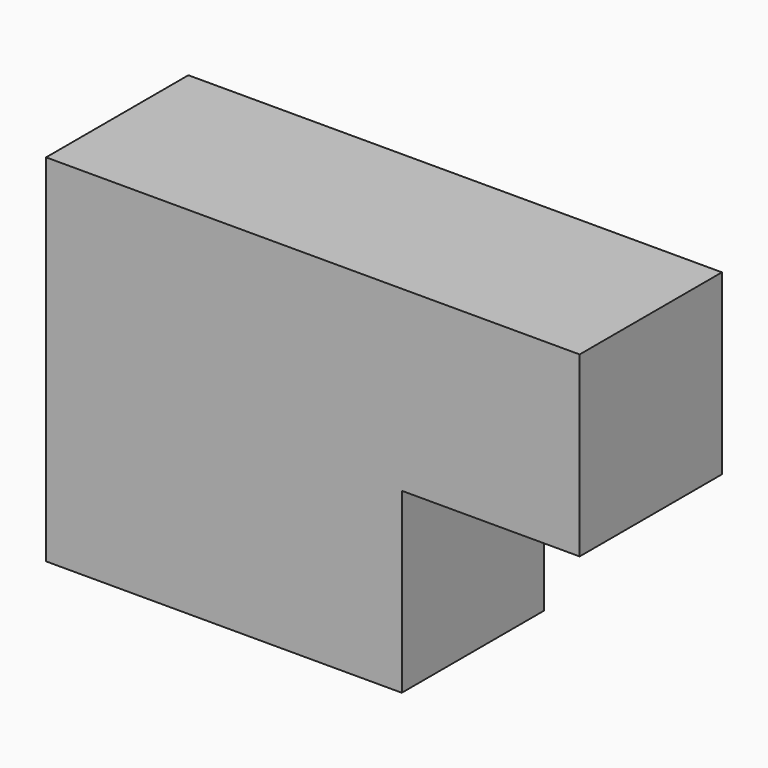
from build123d import *

# Parameters (mm, degrees)
F1_DEPTH = 12.7
F2_W     = 12.7
F2_H     = 12.7
F3_DEPTH = 12.7


with BuildPart() as f1:
    # F0 (on Front) → F1 (new body)
    with BuildSketch(Plane.XZ):
        Polygon((0, 25.4), (0, 0), (25.4, 0), (25.4, 12.7), (38.1, 12.7), (38.1, 25.4), align=None)
    extrude(amount=F1_DEPTH)

    # F2 (on face) → F3 (join)
    with BuildSketch(Plane(origin=(0, 0, 0), x_dir=(-1, 0, 0), z_dir=(0, 1, 0))):
        with Locations((-6.35, 6.35)):
            Rectangle(F2_W, F2_H)
    extrude(amount=F3_DEPTH)


solid = f1.part
